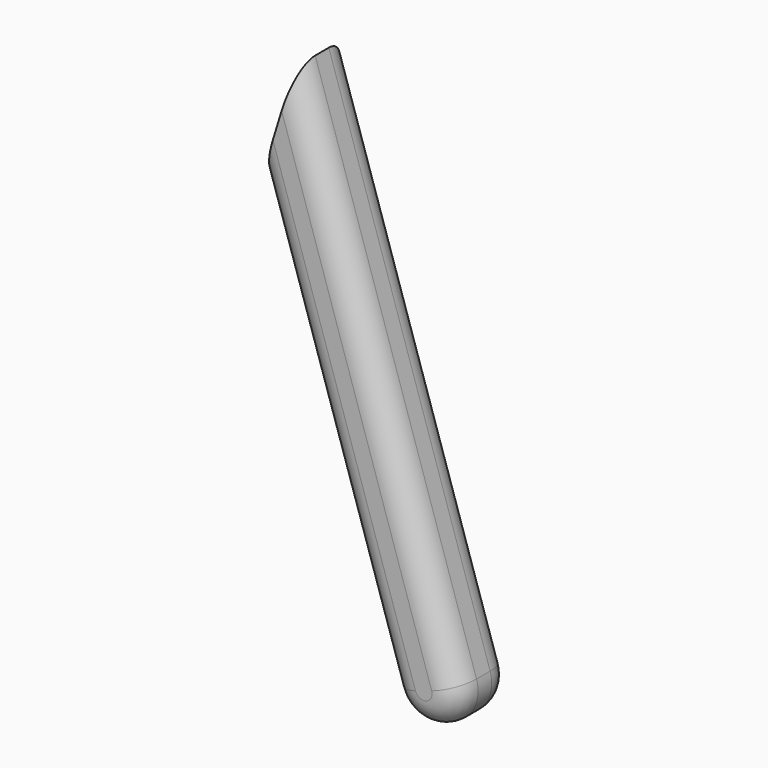
from build123d import *

# Parameters (mm, degrees)
F1_DEPTH = 40
F2_R     = 15


with BuildPart() as f1:
    # F0 (on Front) → F1 (new body)
    with BuildSketch(Plane.XZ):
        with BuildLine():
            ThreePointArc((-75.20147, 12.84079), (-50, 0), (-37.15921, 25.20147))
            Line((-37.15921, 25.20147), (-131.747338, 316.313797))
            Line((-131.747338, 316.313797), (-152.203911, 249.829936))
            Line((-152.203911, 249.829936), (-75.20147, 12.84079))
        make_face()
    extrude(amount=F1_DEPTH)

    # F2
    f2_edges = [f1.edges().sort_by_distance(p)[0] for p in [
        (-113.702691, 0, 131.335363),
        (-84.453274, 0, 170.757634),
        (-113.702691, -40, 131.335363),
        (-84.453274, -40, 170.757634),
    ]]
    fillet(f2_edges, radius=F2_R)


solid = f1.part
